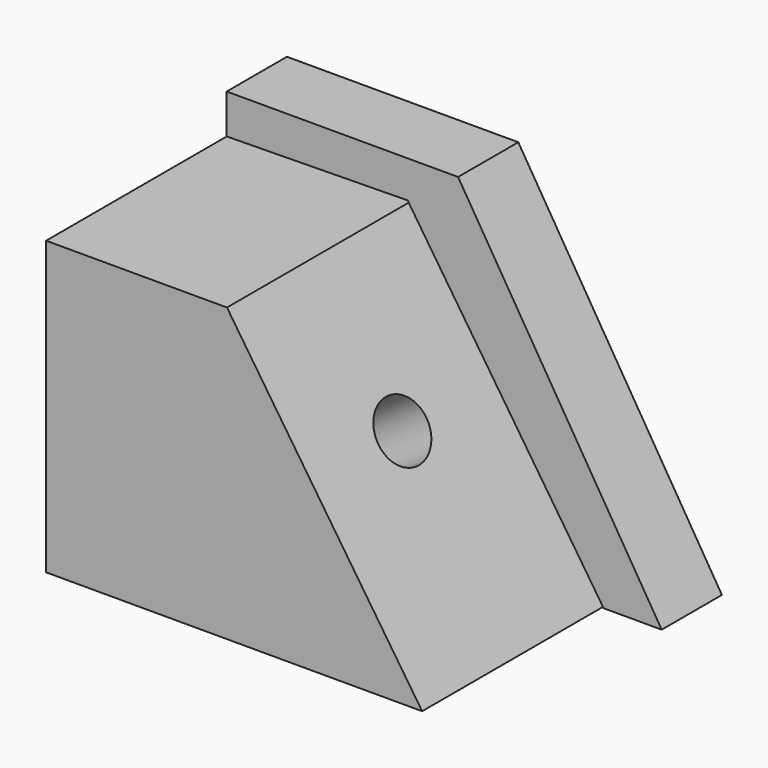
from build123d import *

# Parameters (mm, degrees)
F1_DEPTH = 101.6
F3_DEPTH = 25.4
F4_R     = 10.0537015356
F5_DEPTH = 105.6688880335


with BuildPart() as f1:
    # F0 (on Front) → F1 (new body)
    with BuildSketch(Plane.XZ):
        Polygon((0, 31.658988446), (-61.0464774072, 31.658988446), (-61.0464774072, -66.8671801686), (65.8733993769, -66.8671801686), align=None)
    extrude(amount=F1_DEPTH)

    # F4 (on face) → F5 (cut, through all)
    with BuildSketch(Plane(origin=(14.6279702494, 0, 9.7800831988), x_dir=(0, 1, 0), z_dir=(0.8313124344, 0, 0.5558053943))):
        with Locations((-63.4505003691, -25.2559632063)):
            Circle(F4_R)
    extrude(amount=-F5_DEPTH, mode=Mode.SUBTRACT)


with BuildPart() as f3:
    # F2 (on Front) → F3 (new body)
    with BuildSketch(Plane.XZ):
        Polygon((-61.0464774072, 45.0040325522), (-61.0464774072, 31.658988446), (0, 32.5108021498), (66.1573410034, -67.1511217952), (85.7489928603, -67.1511217952), (17.0362237841, 45.0040325522), align=None)
    extrude(amount=F3_DEPTH)


solid = Compound([f1.part, f3.part])
